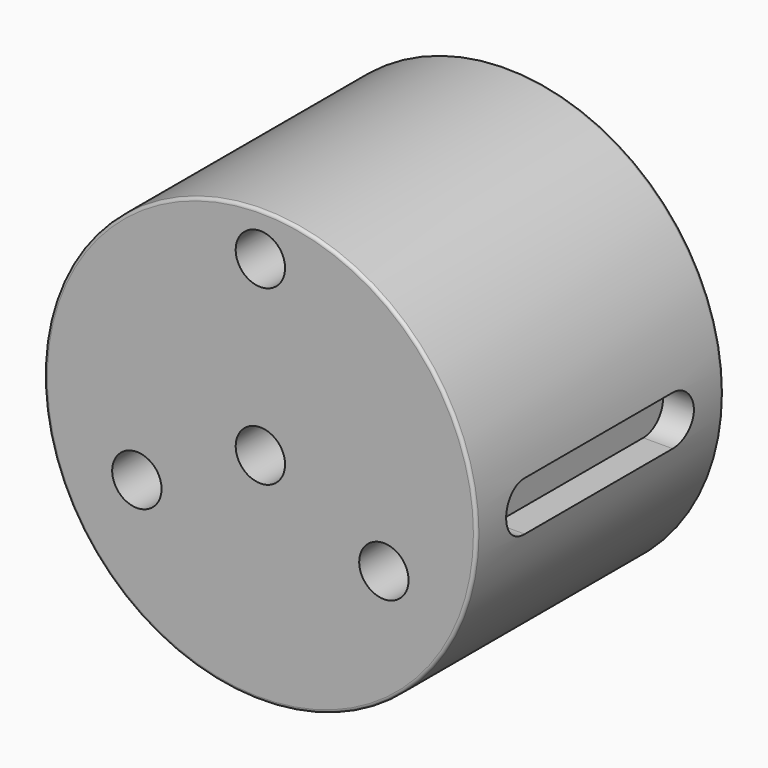
from build123d import *

# Parameters (mm, degrees)
F0_R      = 35
F1_DEPTH  = 50
F3_D      = 8
F3_DEPTH  = 10
F3_TIP    = 2.4034424761
F6_DEPTH  = 5
F9_DEPTH  = 5
F11_D     = 8.8
F11_DEPTH = 22.7505
F11_TIP   = 2.6437867237
F12_R     = 0.5


with BuildPart() as f1:
    # F0 (on Front) → F1 (new body)
    with BuildSketch(Plane.XZ):
        Circle(F0_R)
    extrude(amount=F1_DEPTH)

    # F3
    with Locations(Plane.XZ.offset(50)):
        with Locations((0, 28), (0, 0), (20, -10), (-20, -10)):
            Hole(F3_D / 2, depth=F3_DEPTH)
            with Locations((0, 0, -(F3_DEPTH + F3_TIP / 2))):  # 118° drill point
                Cone(0, F3_D / 2, F3_TIP, mode=Mode.SUBTRACT)

    # F5 (on offset) → F6 (cut)
    with BuildSketch(Plane.YZ.offset(35)):
        with BuildLine():
            Line((-10.0009293836, 3.999999892), (-39.764888731, 3.9930843581))
            ThreePointArc((-39.764888731, 3.9930843581), (-43.9989519, 0.0915625537), (-39.947895719, -3.9996606286))
            Line((-39.947895719, -3.9996606286), (-10.0000453283, -3.9999999997))
            ThreePointArc((-10.0000453283, -3.9999999997), (-6.0000000244, 0.0004420276), (-10.0009293836, 3.999999892))
        make_face()
        with BuildLine():
            Line((-10.0009293836, 3.999999892), (-39.764888731, 3.9930843581))
            ThreePointArc((-39.764888731, 3.9930843581), (-43.9989519, 0.0915625537), (-39.947895719, -3.9996606286))
            Line((-39.947895719, -3.9996606286), (-10.0000453283, -3.9999999997))
            ThreePointArc((-10.0000453283, -3.9999999997), (-6.0000000244, 0.0004420276), (-10.0009293836, 3.999999892))
        make_face()
    extrude(amount=-F6_DEPTH, mode=Mode.SUBTRACT)

    # F8 (on offset) → F9 (cut)
    with BuildSketch(Plane.YZ.offset(-35)):
        with BuildLine():
            Line((-10.0013998348, 3.775364694), (-39.764888731, 3.7649502201))
            ThreePointArc((-39.764888731, 3.7649502201), (-43.9989519, -0.1365715843), (-39.947895719, -4.2277947666))
            Line((-39.947895719, -4.2277947666), (-9.99957818, -4.2246350388))
            ThreePointArc((-9.99957818, -4.2246350388), (-6.0000003078, -0.2237242337), (-10.0013998348, 3.775364694))
        make_face()
    extrude(amount=F9_DEPTH, mode=Mode.SUBTRACT)

    # F11
    with Locations(Plane(origin=(0, 0, 0), x_dir=(1, 0, 0), z_dir=(0, 1, 0))):
        with Locations((0, 0)):
            Hole(F11_D / 2, depth=F11_DEPTH)
            with Locations((0, 0, -(F11_DEPTH + F11_TIP / 2))):  # 118° drill point
                Cone(0, F11_D / 2, F11_TIP, mode=Mode.SUBTRACT)

    # F12
    f12_edges = [f1.edges().sort_by_distance(p)[0] for p in [
        (-35, -50, 0),
        (-35, 0, 0),
    ]]
    fillet(f12_edges, radius=F12_R)


solid = f1.part
